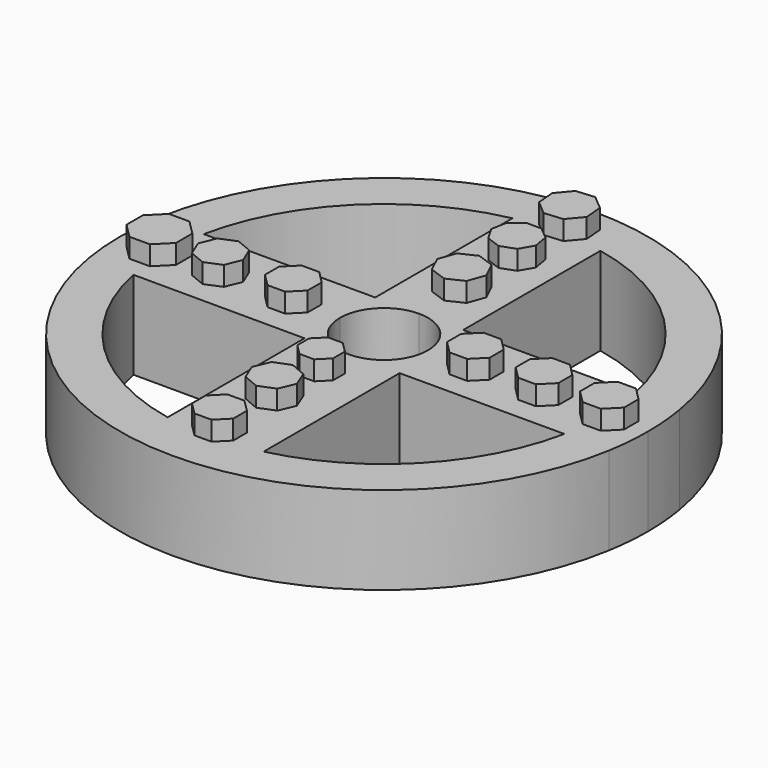
from build123d import *

# Parameters (mm, degrees)
F1_DEPTH = 12.7
F3_DEPTH = 5.588


with BuildPart() as f1:
    # F0 (on Top) → F1 (new body, symmetric)
    with BuildSketch(Plane.XY):
        with BuildLine():
            ThreePointArc((75.134213, -12.7), (75.933086, -6.372321), (76.2, 0))
            ThreePointArc((76.2, 0), (75.933086, 6.372321), (75.134213, 12.7))
            ThreePointArc((75.134213, 12.7), (53.881537, 53.881537), (12.7, 75.134213))
            ThreePointArc((12.7, 75.134213), (0, 76.2), (-12.7, 75.134213))
            ThreePointArc((-12.7, 75.134213), (-53.881537, 53.881537), (-75.134213, 12.7))
            ThreePointArc((-75.134213, 12.7), (-76.2, 0), (-75.134213, -12.7))
            ThreePointArc((-75.134213, -12.7), (0, -76.2), (75.134213, -12.7))
        make_face()
        with BuildLine():
            ThreePointArc((-12.690558, -62.218966), (-44.897873, -44.904687), (-62.217039, -12.7))
            Line((-62.217039, -12.7), (-12.690558, -12.817428))
            Line((-12.690558, -12.817428), (-12.690558, -62.218966))
        make_face(mode=Mode.SUBTRACT)
        with BuildLine():
            Line((14.67346, -12.7), (62.217039, -12.7))
            ThreePointArc((62.217039, -12.7), (45.610118, -44.181073), (14.67346, -61.781385))
            Line((14.67346, -61.781385), (14.67346, -12.7))
        make_face(mode=Mode.SUBTRACT)
        with BuildLine():
            Line((-12.7, 12.7), (-62.217039, 12.7))
            ThreePointArc((-62.217039, 12.7), (-44.901281, 44.901281), (-12.7, 62.217039))
            Line((-12.7, 62.217039), (-12.7, 12.7))
        make_face(mode=Mode.SUBTRACT)
        with BuildLine():
            ThreePointArc((0, 12.7), (8.980256, 8.980256), (12.7, 0))
            ThreePointArc((12.7, 0), (0, -12.7), (-12.7, 0))
            ThreePointArc((-12.7, 0), (-8.980256, 8.980256), (0, 12.7))
        make_face(mode=Mode.SUBTRACT)
        with BuildLine():
            Line((12.7, 12.7), (12.7, 62.217039))
            ThreePointArc((12.7, 62.217039), (44.901281, 44.901281), (62.217039, 12.7))
            Line((62.217039, 12.7), (12.7, 12.7))
        make_face(mode=Mode.SUBTRACT)
    extrude(amount=F1_DEPTH, both=True)

    # F2 (on face) → F3 (join)
    with BuildSketch(Plane.XY.offset(12.7)):
        Polygon((3.232429, 60.705414), (6.682069, 64.812133), (6.217445, 70.155287), (2.110725, 73.604928), (-3.232429, 73.140303), (-6.682069, 69.033583), (-6.217445, 63.69043), (-2.110725, 60.240789), align=None)
        Polygon((2.237321, 54.034017), (-2.237321, 54.034017), (-5.665096, 51.157772), (-6.44211, 46.751109), (-4.204789, 42.875955), (0, 41.345537), (4.204789, 42.875955), (6.44211, 46.751109), (5.665096, 51.157772), align=None)
        Polygon((4.574757, 33.132439), (-0.353307, 34.881021), (-5.074409, 32.632787), (-6.822991, 27.704723), (-4.574757, 22.983621), (0.353307, 21.235039), (5.074409, 23.483272), (6.822991, 28.411337), align=None)
        Polygon((-57.702381, -2.95684), (-57.702381, 2.95684), (-61.883984, 7.138442), (-67.797663, 7.138442), (-71.979266, 2.95684), (-71.979266, -2.95684), (-67.797663, -7.138442), (-61.883984, -7.138442), align=None)
        Polygon((-51.800584, 4.580097), (-53.689675, -0.019427), (-51.77311, -4.607571), (-47.173586, -6.496662), (-42.585442, -4.580097), (-40.696351, 0.019427), (-42.612916, 4.607571), (-47.21244, 6.496662), align=None)
        Polygon((-32.313216, 2.565593), (-32.32931, -2.526738), (-28.739868, -6.138941), (-23.647537, -6.155035), (-20.035334, -2.565593), (-20.01924, 2.526738), (-23.608682, 6.138941), (-28.701014, 6.155035), align=None)
        Polygon((-5.155539, -20.568707), (-5.155539, -24.839695), (-2.135494, -27.85974), (2.135494, -27.85974), (5.155539, -24.839695), (5.155539, -20.568707), (2.135494, -17.548662), (-2.135494, -17.548662), align=None)
        Polygon((-4.566506, -34.879606), (-6.537733, -39.479133), (-4.679244, -44.125357), (-0.079718, -46.096583), (4.566506, -44.238094), (6.537733, -39.638568), (4.679244, -34.992344), (0.079718, -33.021117), align=None)
        Polygon((-5.948699, -56.923812), (-5.948699, -61.851876), (-2.464032, -65.336543), (2.464032, -65.336543), (5.948699, -61.851876), (5.948699, -56.923812), (2.464032, -53.439145), (-2.464032, -53.439145), align=None)
        Polygon((20.225577, 2.546165), (20.225577, -2.546165), (23.826398, -6.146986), (28.918728, -6.146986), (32.519549, -2.546165), (32.519549, 2.546165), (28.918728, 6.146986), (23.826398, 6.146986), align=None)
        Polygon((40.054575, 2.546165), (40.054575, -2.546165), (43.655396, -6.146986), (48.747726, -6.146986), (52.348547, -2.546165), (52.348547, 2.546165), (48.747726, 6.146986), (43.655396, 6.146986), align=None)
        Polygon((58.693826, 2.628301), (58.693826, -2.628301), (62.410805, -6.34528), (67.667407, -6.34528), (71.384385, -2.628301), (71.384385, 2.628301), (67.667407, 6.34528), (62.410805, 6.34528), align=None)
    extrude(amount=F3_DEPTH)


solid = f1.part
